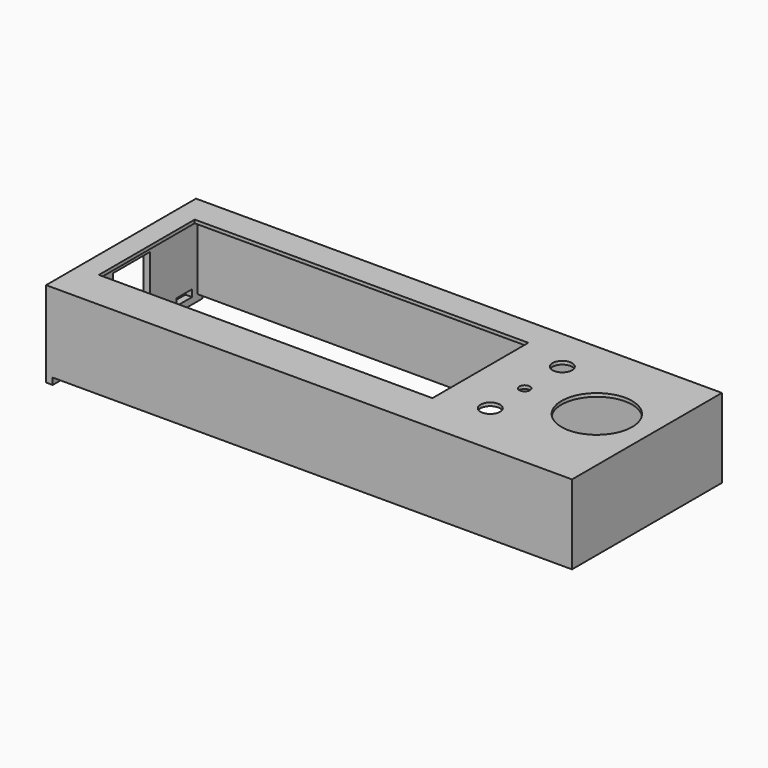
from build123d import *

# Parameters (mm, degrees)
SKETCH_W        = 160
SKETCH_H        = 57
SKETCH_W_2      = 156
SKETCH_H_2      = 53
PAD_DEPTH       = 23.1
SKETCH001_W     = 160
SKETCH001_H     = 57
PAD001_DEPTH    = 1
SKETCH002_R     = 10.75
SKETCH002_R_2   = 2.97
SKETCH002_R_3   = 1.6
SKETCH002_W     = 101.49
SKETCH002_H     = 36.46
POCKET_DEPTH    = 1
SKETCH003_W     = 6
SKETCH003_H     = 2.1
SKETCH003_W_2   = 14
SKETCH003_H_2   = 12
POCKET001_DEPTH = 5
SKETCH005_W     = 57
SKETCH005_H     = 2
PAD002_DEPTH    = 2


with BuildPart() as part:
    # Sketch → Pad (new body)
    with BuildSketch(Plane.XY):
        with Locations((8.261541, -8.185916)):
            Rectangle(SKETCH_W, SKETCH_H)
        with Locations((8.261541, -8.185916)):
            Rectangle(SKETCH_W_2, SKETCH_H_2, mode=Mode.SUBTRACT)
    extrude(amount=PAD_DEPTH)

    # Sketch001 → Pad001 (new body)
    with BuildSketch(Plane.XY.offset(23.1)):
        with Locations((8.261541, -8.185916)):
            Rectangle(SKETCH001_W, SKETCH001_H)
    extrude(amount=PAD001_DEPTH)

    # Sketch002 → Pocket (cut)
    with BuildSketch(Plane.XY.offset(24.1)):
        with Locations((71.821541, -6.710916)):
            Circle(SKETCH002_R)
        with Locations((50.211541, -20.210916)):
            Circle(SKETCH002_R_2)
        with Locations((50.211541, 7.179084)):
            Circle(SKETCH002_R_2)
        with Locations((50.211541, -7.130916)):
            Circle(SKETCH002_R_3)
        with Locations((-14.493459, -6.515916)):
            Rectangle(SKETCH002_W, SKETCH002_H)
    extrude(amount=-POCKET_DEPTH, mode=Mode.SUBTRACT)

    # Sketch003 → Pocket001 (cut)
    with BuildSketch(Plane(origin=(-71.738459, 0, 0), x_dir=(0, -1, 0), z_dir=(-1, 0, 0))):
        with Locations((-13.314084, 1.05)):
            Rectangle(SKETCH003_W, SKETCH003_H)
        with Locations((6.700916, 12.6)):
            Rectangle(SKETCH003_W_2, SKETCH003_H_2)
        with Locations((29.685916, 1.05)):
            Rectangle(SKETCH003_W, SKETCH003_H)
    extrude(amount=-POCKET001_DEPTH, mode=Mode.SUBTRACT)

    # Sketch005 → Pad002 (new body)
    with BuildSketch(Plane(origin=(-71.738459, 0, 0), x_dir=(0, -1, 0), z_dir=(-1, 0, 0))):
        with Locations((8.185916, -1)):
            Rectangle(SKETCH005_W, SKETCH005_H)
    extrude(amount=-PAD002_DEPTH)


solid = part.part
